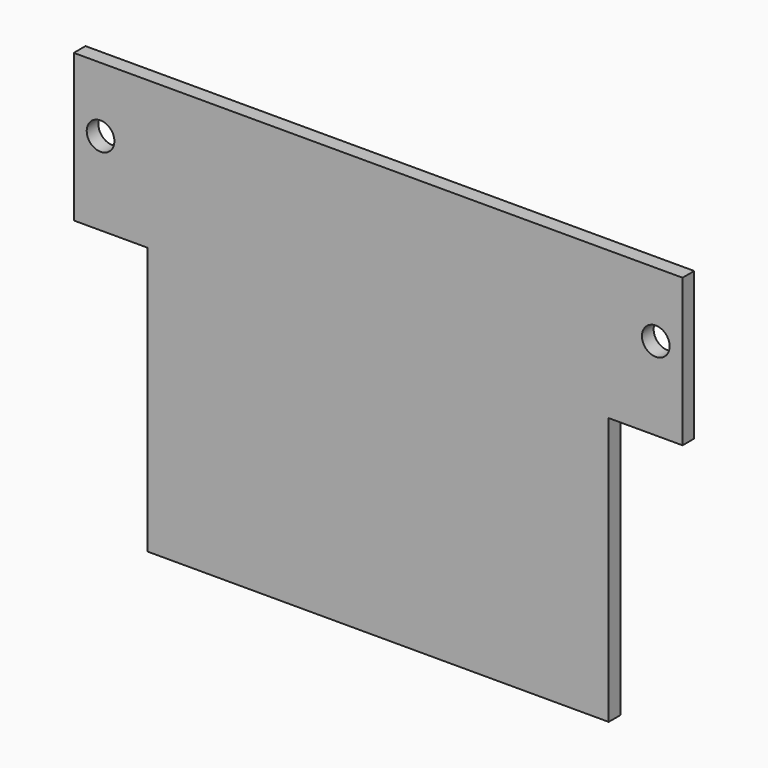
from build123d import *

# Parameters (mm, degrees)
F0_W     = 68
F0_H     = 45
F1_DEPTH = 1.5875
F2_W     = 8.9957
F2_H     = 29
F2_W_2   = 9.0043
F3_DEPTH = 25.4
F4_D     = 3
F5_W     = 1
F5_H     = 16
F6_DEPTH = 25.4


with BuildPart() as f1:
    # F0 (on Front) → F1 (new body)
    with BuildSketch(Plane.XZ):
        with Locations((6.343424, -1.337832)):
            Rectangle(F0_W, F0_H)
    extrude(amount=F1_DEPTH)

    # F2 (on face) → F3 (cut)
    with BuildSketch(Plane.XZ.offset(1.5875)):
        with Locations((-23.158726, -9.337832)):
            Rectangle(F2_W, F2_H)
        with Locations((35.841274, -9.337832)):
            Rectangle(F2_W_2, F2_H)
    extrude(amount=-F3_DEPTH, mode=Mode.SUBTRACT)

    # F4 (through all)
    with Locations(Plane.XZ.offset(1.5875)):
        with Locations((-23.753476, 14.162168), (36.444524, 14.162168)):
            Hole(F4_D / 2)

    # F5 (on face) → F6 (cut)
    with BuildSketch(Plane.XZ.offset(1.5875)):
        with Locations((-27.156576, 13.162168)):
            Rectangle(F5_W, F5_H)
        with Locations((39.843424, 13.162168)):
            Rectangle(F5_W, F5_H)
    extrude(amount=-F6_DEPTH, mode=Mode.SUBTRACT)


solid = f1.part
